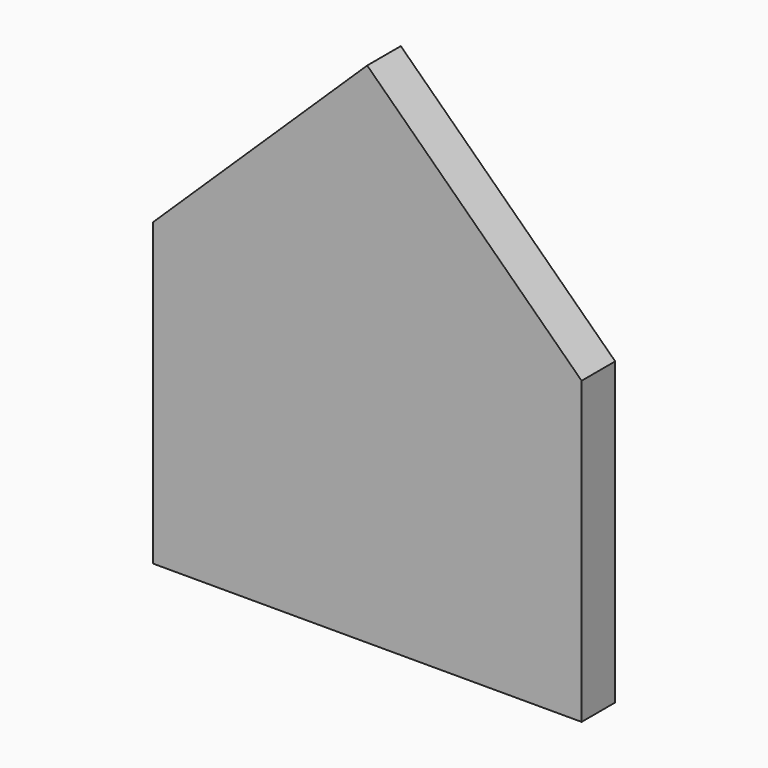
from build123d import *

# Parameters (mm, degrees)
F1_DEPTH = 6.35


with BuildPart() as f1:
    # F0 (on Front) → F1 (new body, symmetric)
    with BuildSketch(Plane.XZ):
        with BuildLine():
            Line((-39.895691, -12.556188), (-39.895691, -63.356188))
            Line((-39.895691, -63.356188), (4.725324, -63.356188))
            Line((4.725324, -63.356188), (4.725324, -12.556188))
            ThreePointArc((4.725324, -12.556188), (-17.585183, 9.754319), (-39.895691, -12.556188))
        make_face()
        Polygon((0, 90.262515), (-64.81318, 27.438652), (64.81318, 27.438652), align=None)
        with BuildLine():
            Line((-64.81318, 27.438652), (-64.81318, -63.356188))
            Line((-64.81318, -63.356188), (-39.895691, -63.356188))
            Line((-39.895691, -63.356188), (-39.895691, -12.556188))
            ThreePointArc((-39.895691, -12.556188), (-17.585183, 9.754319), (4.725324, -12.556188))
            Line((4.725324, -12.556188), (4.725324, -63.356188))
            Line((4.725324, -63.356188), (64.81318, -63.356188))
            Line((64.81318, -63.356188), (64.81318, 27.438652))
            Line((64.81318, 27.438652), (-64.81318, 27.438652))
        make_face()
    extrude(amount=F1_DEPTH, both=True)


solid = f1.part
